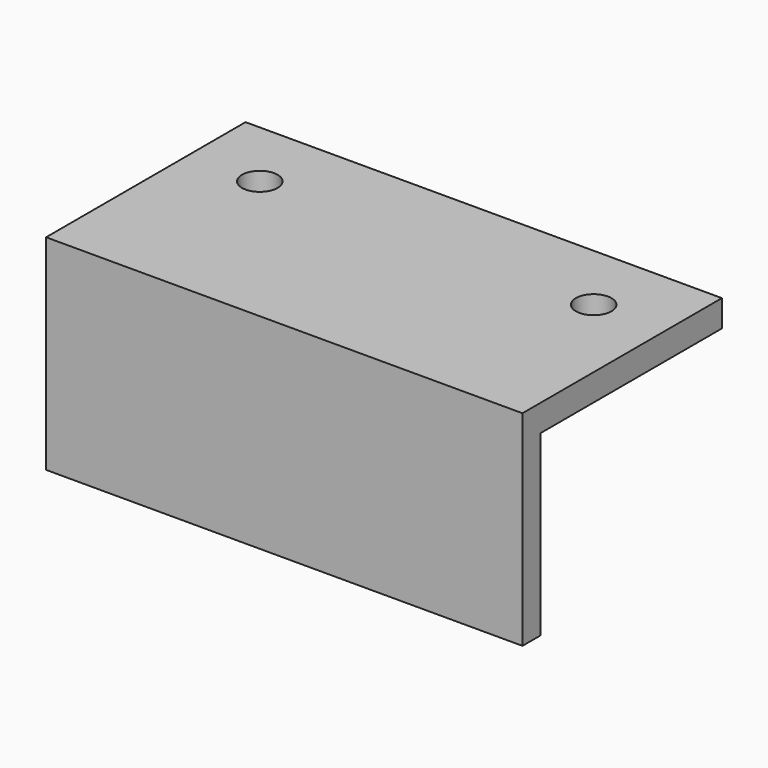
from build123d import *

# Parameters (mm, degrees)
SKETCH002_W     = 53.5
SKETCH002_H     = 28
PAD_DEPTH       = 3
SKETCH_R        = 2
POCKET_DEPTH    = 5
SKETCH001_R     = 2
POCKET001_DEPTH = 5
SKETCH003_W     = 53.5
SKETCH003_H     = 2.5
PAD001_DEPTH    = 20


with BuildPart() as part:
    # Sketch002 → Pad (new body)
    with BuildSketch(Plane.XY):
        with Locations((18.75, -6)):
            Rectangle(SKETCH002_W, SKETCH002_H)
    extrude(amount=PAD_DEPTH)

    # Sketch → Pocket (cut)
    with BuildSketch(Plane.XY):
        Circle(SKETCH_R)
    extrude(amount=POCKET_DEPTH, mode=Mode.SUBTRACT)

    # Sketch001 → Pocket001 (cut)
    with BuildSketch(Plane.XY):
        with Locations((37.5, 0)):
            Circle(SKETCH001_R)
    extrude(amount=POCKET001_DEPTH, mode=Mode.SUBTRACT)

    # Sketch003 → Pad001 (join)
    with BuildSketch(Plane.XY):
        with Locations((18.75, -18.75)):
            Rectangle(SKETCH003_W, SKETCH003_H)
    extrude(amount=-PAD001_DEPTH)


solid = part.part
